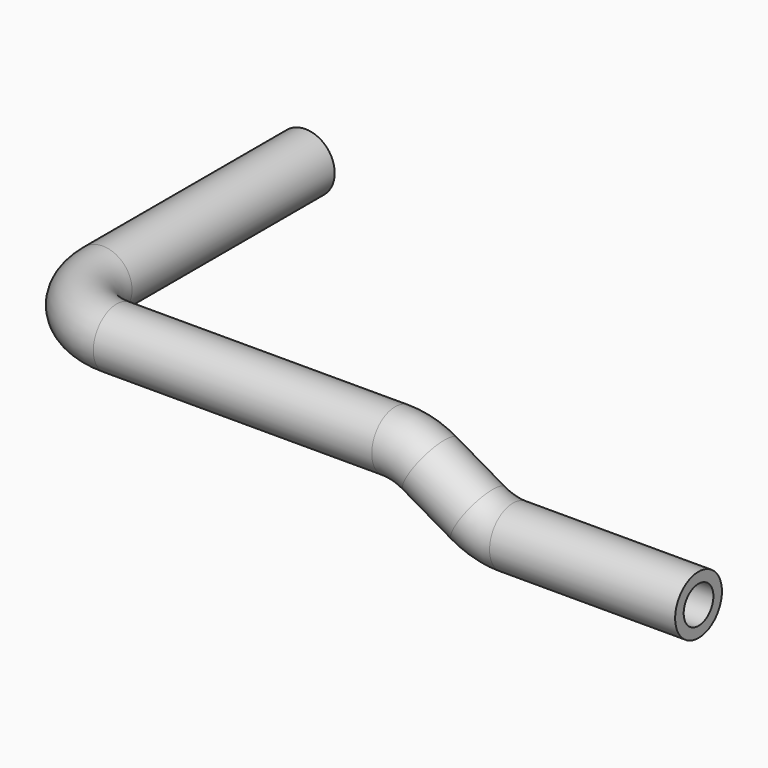
from build123d import *

# Parameters (mm, degrees)
F0_R      = 8.001
F0_R_2    = 5.08
F1_DEPTH  = 69.342
F2_R      = 8.001
F2_R_2    = 5.08
F3_ANGLE  = 90
F4_R      = 8.001
F4_R_2    = 5.08
F5_DEPTH  = 76.2
F6_R      = 8.001
F6_R_2    = 5.08
F7_ANGLE  = 30
F8_R      = 8.001
F8_R_2    = 5.08
F9_DEPTH  = 15.24
F10_R     = 8.001
F10_R_2   = 5.08
F11_ANGLE = 30
F12_R     = 8.001
F12_R_2   = 5.08
F13_DEPTH = 50.8


with BuildPart() as f1:
    # F0 (on Front) → F1 (new body)
    with BuildSketch(Plane.XZ):
        Circle(F0_R)
        Circle(F0_R_2, mode=Mode.SUBTRACT)
    extrude(amount=F1_DEPTH)

    # F2 (on face) → F3 (revolve)
    with BuildSketch(Plane.XZ.offset(69.342)):
        Circle(F2_R)
        Circle(F2_R_2, mode=Mode.SUBTRACT)
    revolve(axis=Axis((19.05, -69.342, 0.0863848254), (0, 0, 1)), revolution_arc=F3_ANGLE)

    # F4 (on face) → F5 (join)
    with BuildSketch(Plane.YZ.offset(19.05)):
        with Locations((-88.392, 0)):
            Circle(F4_R)
        with Locations((-88.392, 0)):
            Circle(F4_R_2, mode=Mode.SUBTRACT)
    extrude(amount=F5_DEPTH)

    # F6 (on face) → F7 (revolve)
    with BuildSketch(Plane.YZ.offset(95.25)):
        with Locations((-88.392, 0)):
            Circle(F6_R)
        with Locations((-88.392, 0)):
            Circle(F6_R_2, mode=Mode.SUBTRACT)
    revolve(axis=Axis((95.25, -87.3048111362, -19.05), (0, 1, 0)), revolution_arc=F7_ANGLE)

    # F8 (on face) → F9 (join)
    with BuildSketch(Plane(origin=(79.686391971, 0, -46.0069598552), x_dir=(0, 1, 0), z_dir=(0.8660254038, 0, -0.5))):
        with Locations((-88.392, 50.1772160579)):
            Circle(F8_R)
        with Locations((-88.392, 50.1772160579)):
            Circle(F8_R_2, mode=Mode.SUBTRACT)
    extrude(amount=F9_DEPTH)

    # F10 (on face) → F11 (revolve)
    with BuildSketch(Plane(origin=(92.8846191247, 0, -53.6269598552), x_dir=(0, 1, 0), z_dir=(0.8660254038, 0, -0.5))):
        with Locations((-88.392, 50.1772160579)):
            Circle(F10_R)
        with Locations((-88.392, 50.1772160579)):
            Circle(F10_R_2, mode=Mode.SUBTRACT)
    revolve(axis=Axis((127.4982271537, -88.2504015727, 6.3255678842), (0, -1, 0)), revolution_arc=F11_ANGLE)

    # F12 (on face) → F13 (join)
    with BuildSketch(Plane.YZ.offset(127.4982271537)):
        with Locations((-88.392, -12.7244321158)):
            Circle(F12_R)
        with Locations((-88.392, -12.7244321158)):
            Circle(F12_R_2, mode=Mode.SUBTRACT)
    extrude(amount=F13_DEPTH)


solid = f1.part
